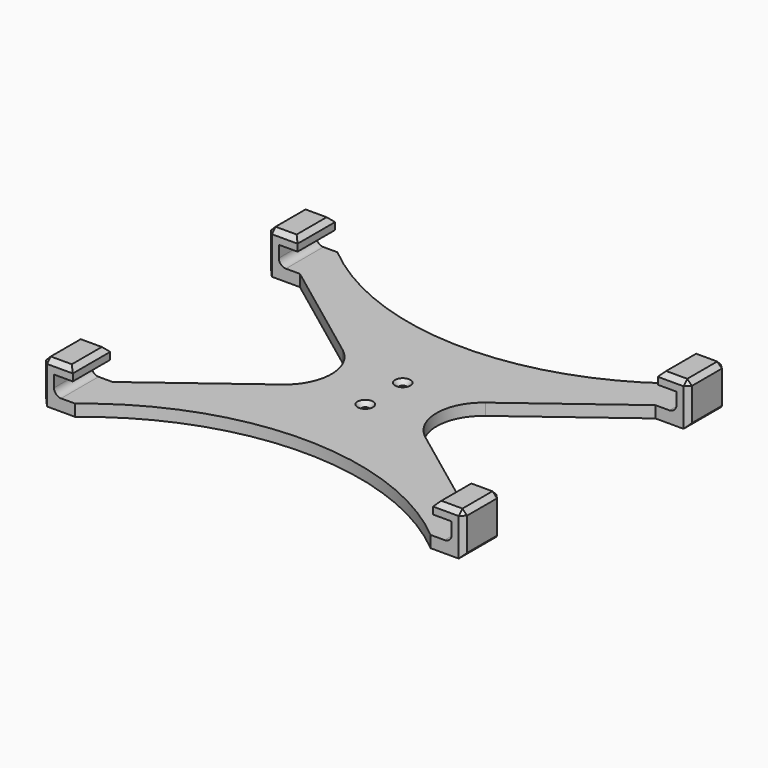
from build123d import *

# Parameters (mm, degrees)
SKETCH019_W     = 179.8
SKETCH019_H     = 140
PAD006_DEPTH    = 18
POCKET005_DEPTH = 140.001
SKETCH020_R     = 1.5
POCKET006_DEPTH = 18.001
CHAMFER004_SIZE = 1.8
CHAMFER009_SIZE = 2


with BuildPart() as part:
    # Sketch019 → Pad006 (new body)
    with BuildSketch(Plane.XY):
        Rectangle(SKETCH019_W, SKETCH019_H)
    extrude(amount=PAD006_DEPTH)

    # Sketch017 (on Face3 of Pad006) → Pocket005 (cut, through all)
    with BuildSketch(Plane.XZ.offset(70)):
        with BuildLine():
            Line((-76.9, 18), (76.9, 18))
            Line((76.9, 18), (76.9, 13))
            Line((76.9, 13), (84.9, 13))
            Line((84.9, 13), (84.9, 8))
            ThreePointArc((81.9, 5), (84.0213203436, 5.8786796564), (84.9, 8))
            Line((81.9, 5), (-81.9, 5))
            ThreePointArc((-84.9, 8), (-84.0213203436, 5.8786796564), (-81.9, 5))
            Line((-84.9, 13), (-84.9, 8))
            Line((-76.9, 13), (-84.9, 13))
            Line((-76.9, 18), (-76.9, 13))
        make_face()
    extrude(amount=-POCKET005_DEPTH, mode=Mode.SUBTRACT)

    # Sketch020 (on Face2 of Pocket005) → Pocket006 (cut, through all)
    with BuildSketch(Plane(origin=(0, 0, 0), x_dir=(1, 0, 0), z_dir=(0, 0, -1))):
        with Locations((0, -10)):
            Circle(SKETCH020_R)
        with Locations((0, 10)):
            Circle(SKETCH020_R)
        with BuildLine():
            Line((-75.9, -70), (75.9, -70))
            ThreePointArc((75.9, -70), (0, -42.4418315883), (-75.9, -70))
        make_face()
        with BuildLine():
            Line((75.9, 50), (30.4697456096, 16.0147901872))
            ThreePointArc((30.4697456096, 16.0147901872), (22.45, 0), (30.4697456096, -16.0147901872))
            Line((75.9, -50), (30.4697456096, -16.0147901872))
            Line((75.9, -50), (89.9, -50))
            Line((89.9, 50), (89.9, -50))
            Line((75.9, 50), (89.9, 50))
        make_face()
        with BuildLine():
            ThreePointArc((-30.4697456096, -16.0147901872), (-22.45, 0), (-30.4697456096, 16.0147901872))
            Line((-75.9, 50), (-30.4697456096, 16.0147901872))
            Line((-75.9, 50), (-89.9, 50))
            Line((-89.9, 50), (-89.9, -50))
            Line((-89.9, -50), (-75.9, -50))
            Line((-75.9, -50), (-30.4697456096, -16.0147901872))
        make_face()
        with BuildLine():
            Line((-75.9, 70), (75.9, 70))
            ThreePointArc((-75.9, 70), (0, 42.4418315883), (75.9, 70))
        make_face()
    extrude(amount=-POCKET006_DEPTH, mode=Mode.SUBTRACT)

    # Chamfer004
    chamfer004_edges = [part.edges().sort_by_distance(p)[0] for p in [
        (-1.5, -10, 5),
        (-1.5, 10, 5),
    ]]
    chamfer(chamfer004_edges, length=CHAMFER004_SIZE)

    # Chamfer009
    chamfer009_edges = [part.edges().sort_by_distance(p)[0] for p in [
        (83.4, 70, 18),
        (89.9, 60, 18),
        (83.4, 50, 18),
        (76.9, 60, 18),
        (89.9, 60, 0),
        (89.9, 50, 9),
        (89.9, 70, 9),
        (83.4, -50, 18),
        (89.9, -60, 18),
        (83.4, -70, 18),
        (76.9, -60, 18),
        (89.9, -60, 0),
        (89.9, -70, 9),
        (89.9, -50, 9),
        (-89.9, 60, 0),
        (-89.9, 70, 9),
        (-89.9, 60, 18),
        (-89.9, 50, 9),
        (-89.9, -60, 0),
        (-89.9, -50, 9),
        (-89.9, -60, 18),
        (-89.9, -70, 9),
        (-83.4, -50, 18),
        (-76.9, -60, 18),
        (-83.4, -70, 18),
        (-83.4, 70, 18),
        (-76.9, 60, 18),
        (-83.4, 50, 18),
    ]]
    chamfer(chamfer009_edges, length=CHAMFER009_SIZE)


solid = part.part
